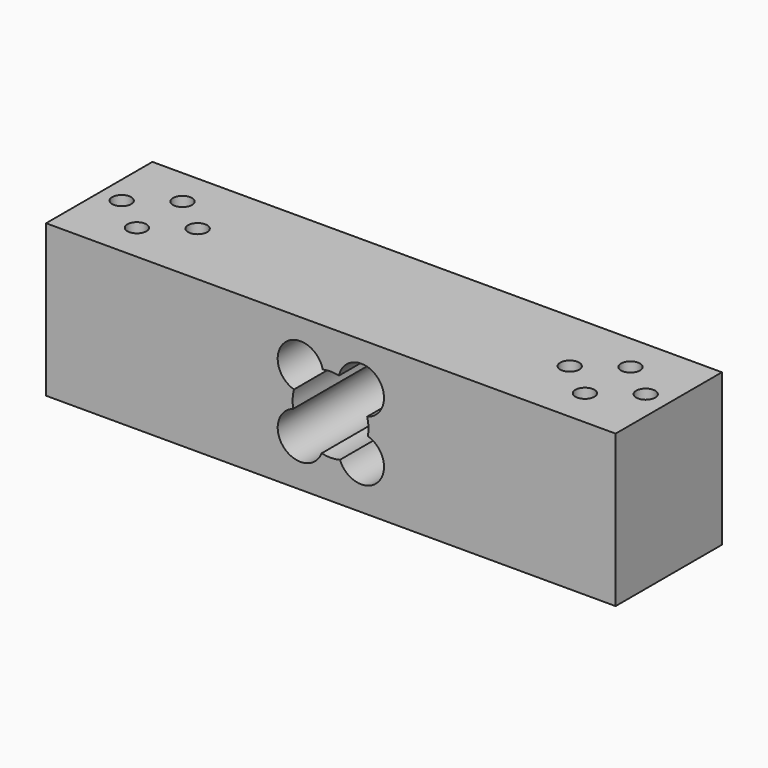
from build123d import *

# Parameters (mm, degrees)
F0_W     = 150
F0_H     = 35
F1_DEPTH = 40
F2_D     = 5
F2_DEPTH = 50
F2_TIP   = 1.5021515476
F4_D     = 12
F4_DEPTH = 50
F4_TIP   = 3.6051637142
F5_D     = 20
F5_DEPTH = 50
F5_TIP   = 6.0086061903


with BuildPart() as f1:
    # F0 (on Top) → F1 (new body)
    with BuildSketch(Plane.XY):
        with Locations((0.152673311, -0.1323037595)):
            Rectangle(F0_W, F0_H)
    extrude(amount=F1_DEPTH)

    # F2
    with Locations(Plane(origin=(0, 0, 0), x_dir=(1, 0, 0), z_dir=(0, 0, -1))):
        with Locations((-59, -7.4576994487), (-69, 0.0423005513), (-59, 7.5423005513), (-49, 0.0423005513), (49, 0.0423005513), (59, -7.4576994487), (59, 7.5423005513), (69, 0.0423005513)):
            Hole(F2_D / 2, depth=F2_DEPTH)
            with Locations((0, 0, -(F2_DEPTH + F2_TIP / 2))):  # 118° drill point
                Cone(0, F2_D / 2, F2_TIP, mode=Mode.SUBTRACT)

    # F4
    with Locations(Plane.XZ.offset(17.6323037595)):
        with Locations((-7.847326689, 28.4498091787), (8.152673311, 28.4498091787), (-7.847326689, 12.4498091787), (8.152673311, 12.4498091787)):
            Hole(F4_D / 2, depth=F4_DEPTH)
            with Locations((0, 0, -(F4_DEPTH + F4_TIP / 2))):  # 118° drill point
                Cone(0, F4_D / 2, F4_TIP, mode=Mode.SUBTRACT)

    # F5
    with Locations(Plane.XZ.offset(17.6323037595)):
        with Locations((0.0776981695, 20)):
            Hole(F5_D / 2, depth=F5_DEPTH)
            with Locations((0, 0, -(F5_DEPTH + F5_TIP / 2))):  # 118° drill point
                Cone(0, F5_D / 2, F5_TIP, mode=Mode.SUBTRACT)


solid = f1.part
